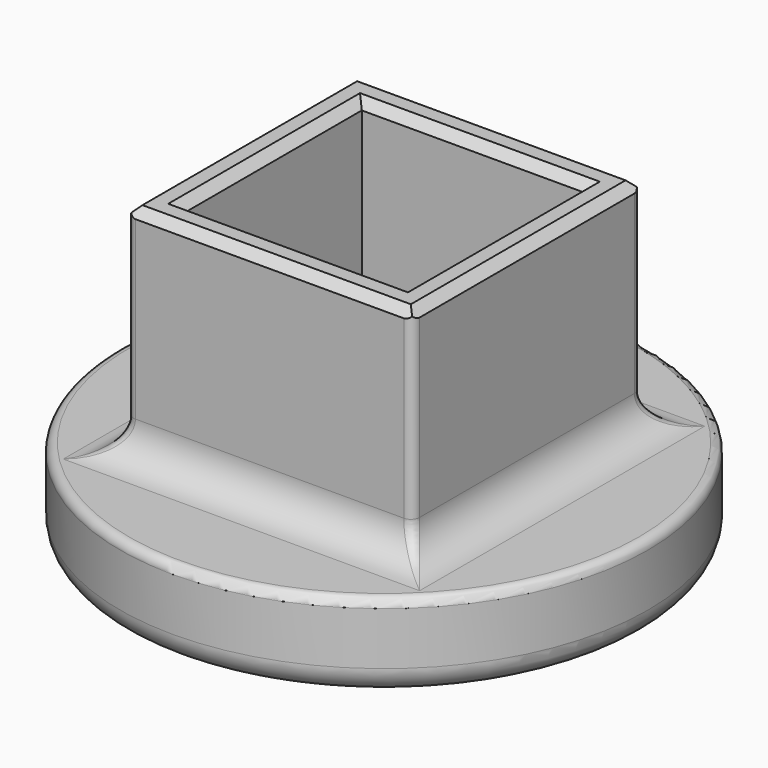
from build123d import *

# Parameters (mm, degrees)
SKETCH_R      = 30
PAD_DEPTH     = 10
SKETCH001_W   = 32.5
SKETCH001_H   = 32.5
SKETCH001_W_2 = 25.25
SKETCH001_H_2 = 25.25
PAD001_DEPTH  = 25
FILLET_R      = 4
FILLET001_R   = 1
FILLET002_R   = 3
CHAMFER_SIZE  = 1
FILLET003_R   = 1
FILLET004_R   = 1


with BuildPart() as part:
    # Sketch → Pad (new body)
    with BuildSketch(Plane.XY):
        Circle(SKETCH_R)
    extrude(amount=PAD_DEPTH)

    # Sketch001 (on Face3 of Pad) → Pad001 (join)
    with BuildSketch(Plane.XY.offset(10)):
        Rectangle(SKETCH001_W, SKETCH001_H)
        Rectangle(SKETCH001_W_2, SKETCH001_H_2, mode=Mode.SUBTRACT)
    extrude(amount=PAD001_DEPTH)

    # Fillet
    fillet_edges = [part.edges().sort_by_distance(p)[0] for p in [
        (16.25, 0, 10),
        (0, -16.25, 10),
        (-16.25, 0, 10),
        (0, 16.25, 10),
    ]]
    fillet(fillet_edges, radius=FILLET_R)

    # Fillet001
    fillet001_edges = [part.edges().sort_by_distance(p)[0] for p in [
        (-30, 0, 10),
    ]]
    fillet(fillet001_edges, radius=FILLET001_R)

    # Fillet002
    fillet002_edges = [part.edges().sort_by_distance(p)[0] for p in [
        (-30, 0, 0),
    ]]
    fillet(fillet002_edges, radius=FILLET002_R)

    # Chamfer
    chamfer_edges = [part.edges().sort_by_distance(p)[0] for p in [
        (-16.25, 0, 35),
        (0, -16.25, 35),
        (16.25, 0, 35),
        (0, 16.25, 35),
        (-12.625, 0, 35),
        (0, -12.625, 35),
        (12.625, 0, 35),
        (0, 12.625, 35),
    ]]
    chamfer(chamfer_edges, length=CHAMFER_SIZE)

    # Fillet003
    fillet003_edges = [part.edges().sort_by_distance(p)[0] for p in [
        (16.25, -16.25, 24),
        (-16.25, -16.25, 24),
        (-16.25, 16.25, 24),
    ]]
    fillet(fillet003_edges, radius=FILLET003_R)

    # Fillet004
    fillet004_edges = [part.edges().sort_by_distance(p)[0] for p in [
        (16.25, 16.25, 24),
    ]]
    fillet(fillet004_edges, radius=FILLET004_R)


solid = part.part
